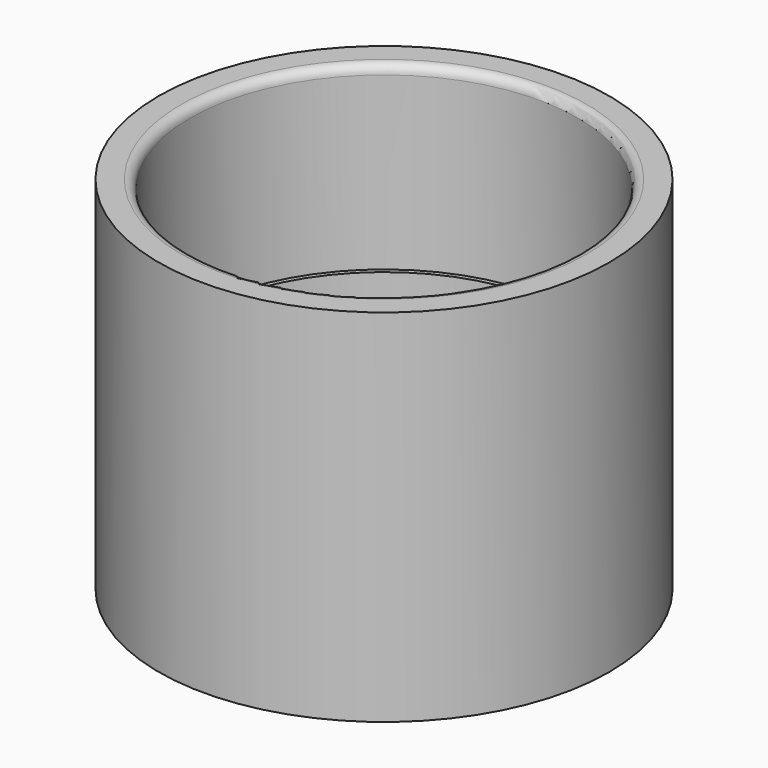
from build123d import *

# Parameters (mm, degrees)
F1_R     = 12.5
F1_R_2   = 10.5
F2_DEPTH = 20
F3_R     = 10.75
F4_DEPTH = 10
F5_R     = 0.5


with BuildPart() as f2:
    # F1 (on offset) → F2 (new body)
    with BuildSketch(Plane.XY.offset(36.5)):
        Circle(F1_R)
        Circle(F1_R_2, mode=Mode.SUBTRACT)
    extrude(amount=F2_DEPTH)

    # F3 (on face) → F4 (cut)
    with BuildSketch(Plane.XY.offset(56.5)):
        Circle(F3_R)
    extrude(amount=-F4_DEPTH, mode=Mode.SUBTRACT)

    # F5
    f5_edges = [f2.edges().sort_by_distance(p)[0] for p in [
        (-10.75, 0, 56.5),
        (-10.5, 0, 36.5),
    ]]
    fillet(f5_edges, radius=F5_R)


solid = f2.part
